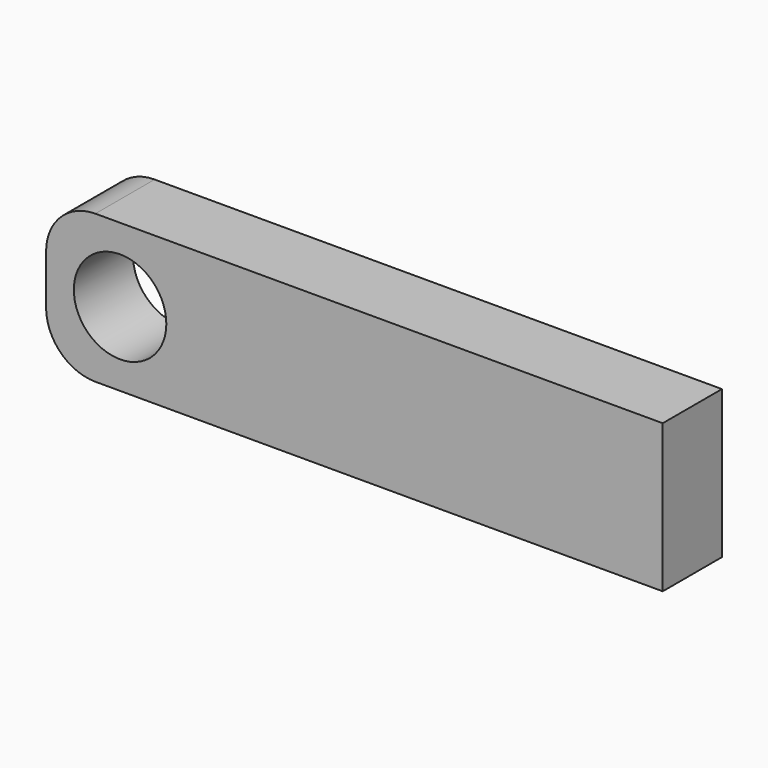
from build123d import *

# Parameters (mm, degrees)
F0_W     = 25
F0_H     = 6
F0_R     = 1.875
F1_DEPTH = 3
F2_R     = 2


with BuildPart() as f1:
    # F0 (on Front) → F1 (new body)
    with BuildSketch(Plane.XZ):
        with Locations((-23.103761, 24.092039)):
            Rectangle(F0_W, F0_H)
        with Locations((-32.603761, 24.092039)):
            Circle(F0_R, mode=Mode.SUBTRACT)
    extrude(amount=F1_DEPTH)

    # F2
    f2_edges = [f1.edges().sort_by_distance(p)[0] for p in [
        (-35.603761, -1.5, 27.092039),
        (-35.603761, -1.5, 21.092039),
    ]]
    fillet(f2_edges, radius=F2_R)


solid = f1.part
